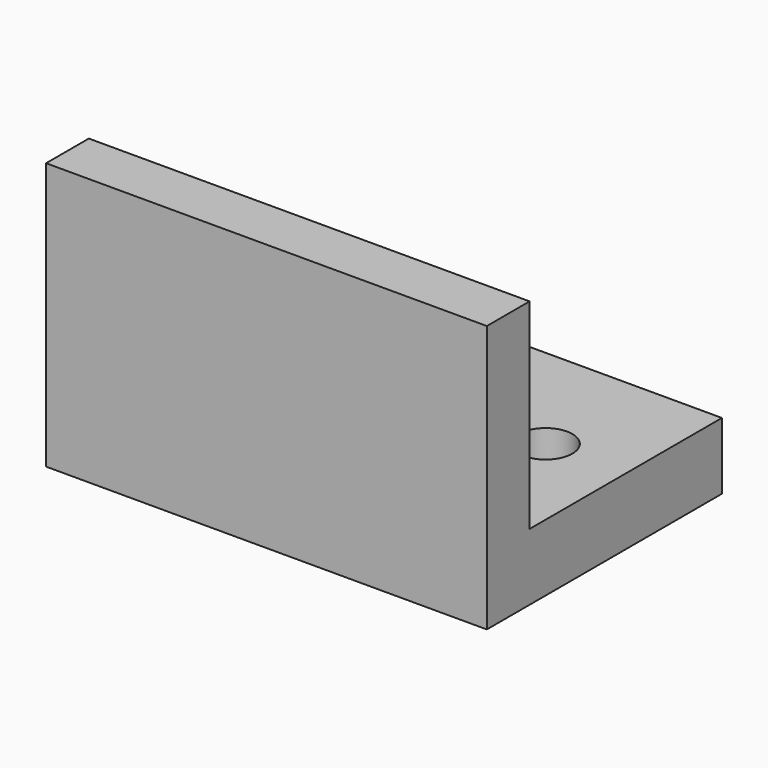
from build123d import *

# Parameters (mm, degrees)
CYLINDER291_R     = 2
CYLINDER291_DEPTH = 10
CYLINDER290_R     = 2
CYLINDER290_DEPTH = 10
BOX400_W          = 33
BOX400_H          = 22
BOX400_DEPTH      = 5
BOX397_W          = 33
BOX397_H          = 4
BOX397_DEPTH      = 20


with BuildPart() as cylinder291:
    # Cylinder291 → Cylinder291 (new body)
    with BuildSketch(Plane(origin=(-15, 72, 32), x_dir=(1, 0, 0), z_dir=(0, 0, 1))):
        Circle(CYLINDER291_R)
    extrude(amount=CYLINDER291_DEPTH)


with BuildPart() as fusion229:
    # Cylinder290 → Cylinder290 (new body)
    with BuildSketch(Plane(origin=(-36, 72, 32), x_dir=(1, 0, 0), z_dir=(0, 0, 1))):
        Circle(CYLINDER290_R)
    extrude(amount=CYLINDER290_DEPTH)

    # Fusion229: union Cylinder291
    add(cylinder291.part)


with BuildPart() as cut277:
    # Box400 → Box400 (new body)
    with BuildSketch(Plane(origin=(-42, 59, 37), x_dir=(1, 0, 0), z_dir=(0, 0, 1))):
        with Locations((16.5, 11)):
            Rectangle(BOX400_W, BOX400_H)
    extrude(amount=BOX400_DEPTH)

    # Cut277: cut Fusion229
    add(fusion229.part, mode=Mode.SUBTRACT)


with BuildPart() as fusion231:
    # Box397 → Box397 (new body)
    with BuildSketch(Plane(origin=(-42, 59, 37), x_dir=(1, 0, 0), z_dir=(0, 0, 1))):
        with Locations((16.5, 2)):
            Rectangle(BOX397_W, BOX397_H)
    extrude(amount=BOX397_DEPTH)

    # Fusion231: union Cut277
    add(cut277.part)


solid = fusion231.part
